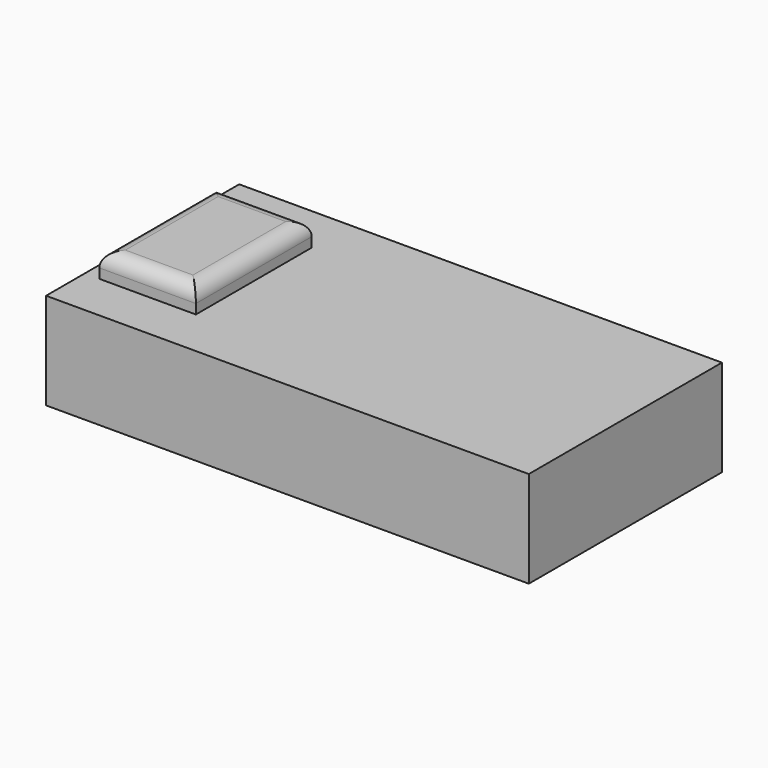
from build123d import *

# Parameters (mm, degrees)
F0_W     = 2000
F0_H     = 1000
F2_DEPTH = 400
F1_W     = 400
F1_H     = 600
F3_DEPTH = 100
F4_R     = 60


with BuildPart() as f2:
    # F0 (on Top) → F2 (new body)
    with BuildSketch(Plane.XY):
        with Locations((1.323093, -254.846548)):
            Rectangle(F0_W, F0_H)
    extrude(amount=-F2_DEPTH)

    # F1 (on face) → F3 (join)
    with BuildSketch(Plane.XY):
        with Locations((-738.085746, -254.846548)):
            Rectangle(F1_W, F1_H)
    extrude(amount=F3_DEPTH)

    # F4
    f4_edges = [f2.edges().sort_by_distance(p)[0] for p in [
        (-738.085746, -554.846548, 100),
        (-738.085746, 45.153452, 100),
        (-538.085746, -254.846548, 100),
        (-938.085746, -254.846548, 100),
    ]]
    fillet(f4_edges, radius=F4_R)


solid = f2.part
